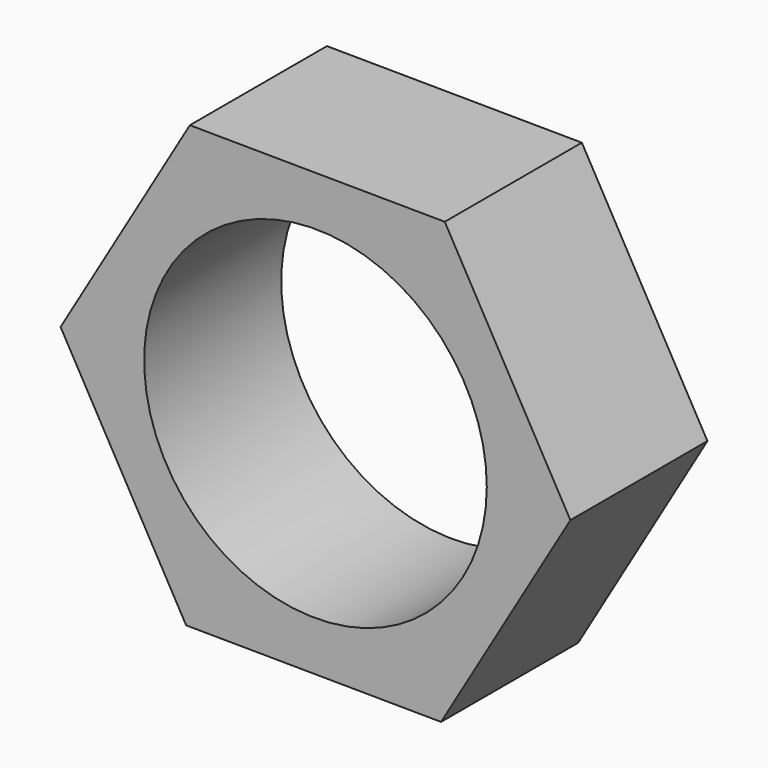
from build123d import *

# Parameters (mm, degrees)
F0_R     = 10
F1_DEPTH = 10


with BuildPart() as f1:
    # F0 (on Front) → F1 (new body)
    with BuildSketch(Plane.XZ):
        Polygon((-10.914825, -12.82301), (3.963517, -12.947034), (11.510096, -0.124024), (4.178333, 12.82301), (-10.700008, 12.947034), (-18.246587, 0.124024), align=None)
        with Locations((-3.368246, 0)):
            Circle(F0_R, mode=Mode.SUBTRACT)
    extrude(amount=-F1_DEPTH)


solid = f1.part
